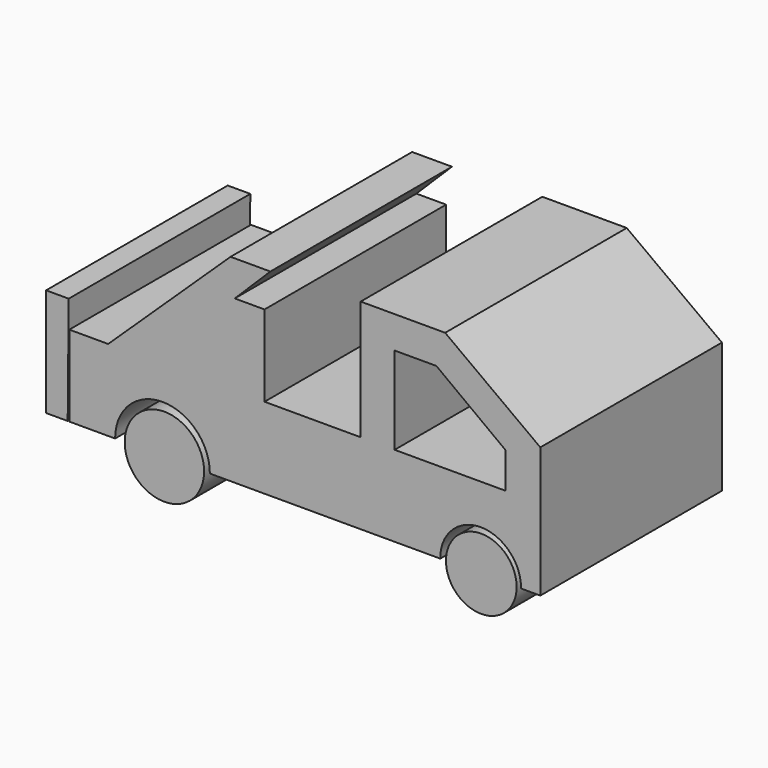
from build123d import *

# Parameters (mm, degrees)
F0_R     = 11.1057222809
F1_DEPTH = 25.4
F0_R_2   = 9.8906413659
F0_W     = 8.3235400517
F0_H     = 22.7270985101
F2_DEPTH = 63.5
F4_DEPTH = 63.5


with BuildPart() as f1:
    # F0 (on Front) → F1 (new body)
    with BuildSketch(Plane.XZ):
        with Locations((-39.7171936929, 0)):
            Circle(F0_R)
    extrude(amount=F1_DEPTH)


with BuildPart() as f1b:
    # F0 (on Front) → F1, piece 2 (new body)
    with BuildSketch(Plane.XZ):
        with Locations((48.9269793034, 0)):
            Circle(F0_R_2)
    extrude(amount=F1_DEPTH)


with BuildPart() as f1c:
    # F0 (on Front) → F1, piece 3 (new body)
    with BuildSketch(Plane.XZ):
        with BuildLine():
            ThreePointArc((-53.4966252744, 0), (-40.2515335009, 13.3391208014), (-27.0064417273, 0))
            Line((-27.0064417273, 0), (37.442240864, 0))
            ThreePointArc((37.442240864, 0), (48.7490296364, 11.4406889954), (60.0558184087, 0))
            Line((60.0558184087, 0), (65.4400959611, 0))
            Line((65.4400959611, 0), (65.4400959611, 36.5078896284))
            Line((65.4400959611, 36.5078896284), (38.8181619346, 56.0668669641))
            Line((38.8181619346, 56.0668669641), (15.1843968779, 56.0668669641))
            Line((15.1843968779, 56.0668669641), (15.1843968779, 22.6536151022))
            Line((15.1843968779, 22.6536151022), (-11.709199287, 22.6536151022))
            Line((-11.709199287, 22.6536151022), (-20.0327393387, 22.6536151022))
            Line((-20.0327393387, 22.6536151022), (-42.9492332041, 22.6536151022))
            Line((-42.9492332041, 22.6536151022), (-55.4452463984, 22.6536151022))
            Line((-55.4452463984, 22.6536151022), (-66.3113445044, 22.6536151022))
            Line((-66.3113445044, 22.6536151022), (-66.3113445044, 0))
            Line((-66.3113445044, 0), (-53.4966252744, 0))
        make_face()
        Polygon((55.6606091559, 22.6536151022), (24.6922299266, 22.6536151022), (24.6922299266, 47.1023358405), (36.3732911646, 47.1023358405), (55.6606091559, 32.7047556639), align=None, mode=Mode.SUBTRACT)
        Polygon((-21.2170351297, 55.2519075572), (-55.4452463984, 22.6536151022), (-42.9492332041, 22.6536151022), (-20.0327393387, 45.3807136122), (-10.0792841986, 55.2519075572), align=None)
        Polygon((-20.0327393387, 45.3807136122), (-42.9492332041, 22.6536151022), (-20.0327393387, 22.6536151022), align=None)
        with Locations((-15.8709693129, 34.0171643572)):
            Rectangle(F0_W, F0_H)
    extrude(amount=F1_DEPTH)


with BuildPart() as f2:
    # F0 (on Front) → F2 (new body)
    with BuildSketch(Plane.XZ):
        with Locations((-39.7171936929, 0)):
            Circle(F0_R)
    extrude(amount=F2_DEPTH)


with BuildPart() as f2b:
    # F0 (on Front) → F2, piece 2 (new body)
    with BuildSketch(Plane.XZ):
        with Locations((48.9269793034, 0)):
            Circle(F0_R_2)
    extrude(amount=F2_DEPTH)


with BuildPart() as f2c:
    # F0 (on Front) → F2, piece 3 (new body)
    with BuildSketch(Plane.XZ):
        with BuildLine():
            ThreePointArc((-53.4966252744, 0), (-40.2515335009, 13.3391208014), (-27.0064417273, 0))
            Line((-27.0064417273, 0), (37.442240864, 0))
            ThreePointArc((37.442240864, 0), (48.7490296364, 11.4406889954), (60.0558184087, 0))
            Line((60.0558184087, 0), (65.4400959611, 0))
            Line((65.4400959611, 0), (65.4400959611, 36.5078896284))
            Line((65.4400959611, 36.5078896284), (38.8181619346, 56.0668669641))
            Line((38.8181619346, 56.0668669641), (15.1843968779, 56.0668669641))
            Line((15.1843968779, 56.0668669641), (15.1843968779, 22.6536151022))
            Line((15.1843968779, 22.6536151022), (-11.709199287, 22.6536151022))
            Line((-11.709199287, 22.6536151022), (-20.0327393387, 22.6536151022))
            Line((-20.0327393387, 22.6536151022), (-42.9492332041, 22.6536151022))
            Line((-42.9492332041, 22.6536151022), (-55.4452463984, 22.6536151022))
            Line((-55.4452463984, 22.6536151022), (-66.3113445044, 22.6536151022))
            Line((-66.3113445044, 22.6536151022), (-66.3113445044, 0))
            Line((-66.3113445044, 0), (-53.4966252744, 0))
        make_face()
        Polygon((55.6606091559, 22.6536151022), (24.6922299266, 22.6536151022), (24.6922299266, 47.1023358405), (36.3732911646, 47.1023358405), (55.6606091559, 32.7047556639), align=None, mode=Mode.SUBTRACT)
        Polygon((-21.2170351297, 55.2519075572), (-55.4452463984, 22.6536151022), (-42.9492332041, 22.6536151022), (-20.0327393387, 45.3807136122), (-10.0792841986, 55.2519075572), align=None)
        Polygon((-20.0327393387, 45.3807136122), (-42.9492332041, 22.6536151022), (-20.0327393387, 22.6536151022), align=None)
        with Locations((-15.8709693129, 34.0171643572)):
            Rectangle(F0_W, F0_H)
    extrude(amount=F2_DEPTH)


with BuildPart() as f4:
    # F3 (on Front) → F4 (new body)
    with BuildSketch(Plane.XZ):
        Polygon((-72.8148594499, 0), (-66.7709335685, 0), (-66.4831325412, 30.2196051925), (-72.8148594499, 30.2196051925), align=None)
    extrude(amount=F4_DEPTH)


solid = Compound([f1.part, f1b.part, f1c.part, f2.part, f2b.part, f2c.part, f4.part])
